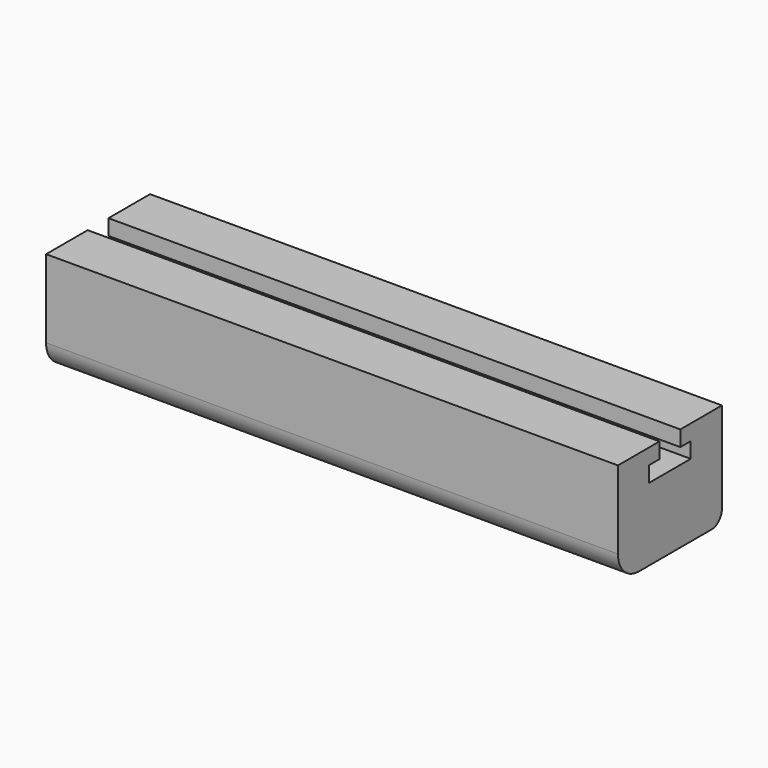
from build123d import *

# Parameters (mm, degrees)
F1_DEPTH = 220
F2_R     = 10


with BuildPart() as f1:
    # F0 (on Right) → F1 (new body)
    with BuildSketch(Plane.YZ):
        with BuildLine():
            Line((50, 5), (50, 40))
            Line((50, 40), (30, 40))
            Line((30, 40), (30, 34))
            Line((30, 34), (35, 34))
            Line((35, 34), (35, 28))
            Line((35, 28), (15, 28))
            Line((15, 28), (15, 34))
            Line((15, 34), (20, 34))
            Line((20, 34), (20, 40))
            Line((20, 40), (0, 40))
            Line((0, 40), (0, 0))
            Line((0, 0), (45, 0))
            ThreePointArc((45, 0), (48.535534, 1.464466), (50, 5))
        make_face()
    extrude(amount=F1_DEPTH)

    # F2
    f2_edges = [f1.edges().sort_by_distance(p)[0] for p in [
        (110, 0, 0),
    ]]
    fillet(f2_edges, radius=F2_R)


solid = f1.part
